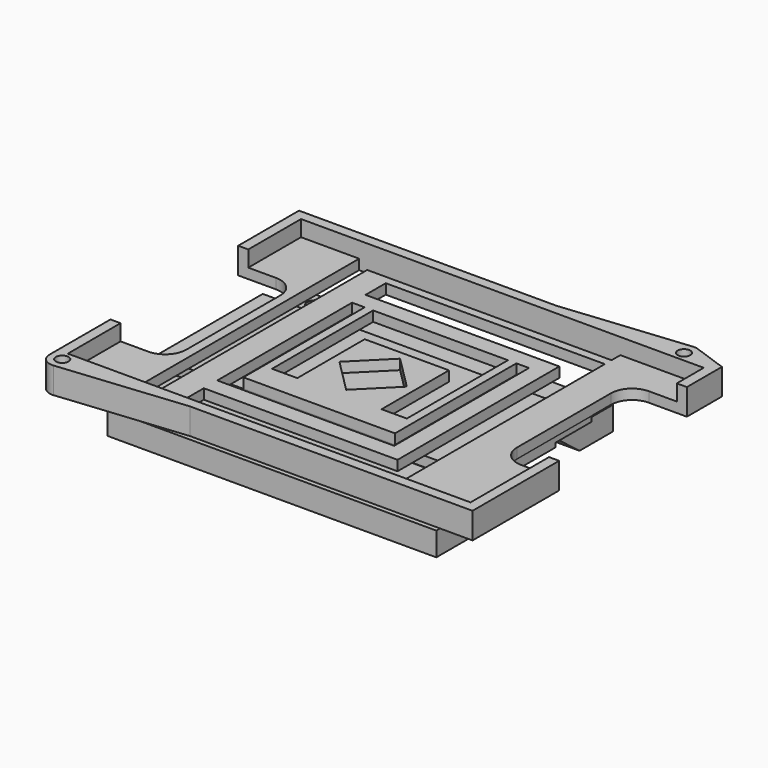
from build123d import *

# Parameters (mm, degrees)
SKETCH007_W       = 50.2
SKETCH007_H       = 37
PAD005_DEPTH      = 1.2
SKETCH008_W       = 47.8
SKETCH008_H       = 34.6
PAD006_DEPTH      = 3.1
POCKET001_DEPTH   = 3.101
SKETCH005_W       = 31
SKETCH005_H       = 34.6
POCKET002_DEPTH   = 5
SKETCH023_W       = 21
SKETCH023_H       = 20
PAD_DEPTH         = 1.2
PAD015_DEPTH      = 1.2
SKETCH013_R       = 0.75
POCKET_DEPTH      = 2.601
POCKET_DEPTH_BACK = 0.501
PAD016_DEPTH      = 19.5
SKETCH_R          = 1
POCKET003_DEPTH   = 5
SKETCH022_W       = 12.944488
SKETCH022_H       = 13.720411
POCKET004_DEPTH   = 4.8


with BuildPart() as plastic_tek1_display_interface_top_part:
    # Sketch007 (on DatumPlane) → Pad005 (new body)
    with BuildSketch(Plane.XY.offset(5.5)):
        with Locations((1.5, 0)):
            Rectangle(SKETCH007_W, SKETCH007_H)
    extrude(amount=PAD005_DEPTH)

    # Sketch008 (on DatumPlane) → Pad006 (join)
    with BuildSketch(Plane.XY.offset(5.5)):
        with BuildLine():
            Line((-23.6, -18.5), (-23.6, 18.5))
            Line((-23.6, 18.5), (6.951471, 18.5))
            Line((21.951471, 19.992628), (6.951471, 18.5))
            ThreePointArc((22.6, 19.914214), (22.280056, 19.989154), (21.951471, 19.992628))
            Line((22.6, 19.914214), (26.6, 18.5))
            Line((26.6, 18.5), (26.6, -18.5))
            Line((26.6, -18.5), (-6.951471, -18.5))
            Line((-21.951471, -19.992628), (-6.951471, -18.5))
            ThreePointArc((-23.6, -18.5), (-23.106779, -19.611934), (-21.951471, -19.992628))
        make_face()
        with Locations((1.5, 0)):
            Rectangle(SKETCH008_W, SKETCH008_H, mode=Mode.SUBTRACT)
    extrude(amount=PAD006_DEPTH)

    # Sketch009 (on DatumPlane) → Pocket001 (cut, through all)
    with BuildSketch(Plane.XY.offset(5.5)):
        with BuildLine():
            Line((19.6, -3.15), (19.6, 10.8))
            ThreePointArc((22.1, 13.3), (20.332233, 12.567767), (19.6, 10.8))
            Line((22.1, 13.3), (26.6, 13.3))
            Line((26.6, 13.3), (26.6, -5.65))
            Line((26.6, -5.65), (22.1, -5.65))
            ThreePointArc((19.6, -3.15), (20.332233, -4.917767), (22.1, -5.65))
        make_face()
        with BuildLine():
            Line((-23.6, 9.475), (-19.1, 9.475))
            ThreePointArc((-16.6, 6.975), (-17.332233, 8.742767), (-19.1, 9.475))
            Line((-16.6, 6.975), (-16.6, -6.975))
            ThreePointArc((-19.1, -9.475), (-17.332233, -8.742767), (-16.6, -6.975))
            Line((-19.1, -9.475), (-23.6, -9.475))
            Line((-23.6, -9.475), (-23.6, 9.475))
        make_face()
    extrude(amount=POCKET001_DEPTH, mode=Mode.SUBTRACT)

    # Sketch005 (on DatumPlane) → Pocket002 (cut)
    with BuildSketch(Plane.XY.offset(5.5)):
        Rectangle(SKETCH005_W, SKETCH005_H)
    extrude(amount=POCKET002_DEPTH, mode=Mode.SUBTRACT)

    # Sketch023 (on DatumPlane) → Pad (join)
    with BuildSketch(Plane.XY.offset(5.5)):
        Polygon((-13.5, -16), (-13.5, 16), (-10.5, 16), (15.5, 16), (15.5, 15), (-10.5, 15), (-10.5, 12), (12.5, 12), (12.5, -12), (-10.5, -12), (-10.5, -15), (15.5, -15), (15.5, -16), (-10.5, -16), align=None)
        Rectangle(SKETCH023_W, SKETCH023_H, mode=Mode.SUBTRACT)
    extrude(amount=PAD_DEPTH)

    # Sketch020 (on DatumPlane) → Pad015 (join)
    with BuildSketch(Plane.XY.offset(5.5)):
        Polygon((-5, -5), (-5, 5), (5, 5), (5, -5), (8, -5), (8, 10), (9, 10), (9, -8), (-9, -8), (-9, 10), (-8, 10), (-8, -5), align=None)
        Polygon((4, 0), (0, 4), (-4, 0), (0, -4), align=None, mode=Mode.SUBTRACT)
    extrude(amount=PAD015_DEPTH)

    # Sketch013 (on DatumPlane) → Pocket (cut, two sides)
    with BuildSketch(Plane.XY.offset(8.1)) as pocket_sk:
        with Locations((22.1, 18.5)):
            Circle(SKETCH013_R)
        with Locations((-22.1, -18.5)):
            Circle(SKETCH013_R)
    extrude(amount=-POCKET_DEPTH, mode=Mode.SUBTRACT)
    extrude(pocket_sk.sketch, amount=POCKET_DEPTH_BACK, mode=Mode.SUBTRACT)


with BuildPart() as body002:
    # Sketch021 → Pad016 (new body, symmetric)
    with BuildSketch(Plane.YZ):
        with BuildLine():
            Line((0, 5.5), (-8, 5.5))
            Line((-8, 5.5), (-8, 4.3))
            Line((-8, 4.3), (-7, 4.3))
            Line((-7, 3.6), (-7, 4.3))
            Line((-4, 3.6), (-7, 3.6))
            ThreePointArc((-4, 2.8), (-3.6, 3.2), (-4, 3.6))
            Line((-10, 2.8), (-4, 2.8))
            Line((-15, 2.8), (-10, 2.8))
            Line((-15, 2.8), (-15, 0))
            Line((-15, 0), (-10, 0))
            Line((-10, 0), (-7, 2.3))
            Line((-7, 2.3), (-4, 2.3))
            ThreePointArc((-4, 2.3), (-3.1, 3.2), (-4, 4.1))
            Line((-4, 4.1), (-6, 4.1))
            Line((-6, 4.1), (-6, 4.3))
            Line((-5.65359, 4.3), (-6, 4.3))
            Line((-5.65359, 4.3), (0, 4.3))
            Line((0, 4.3), (0, 5.5))
        make_face()
    pad016 = extrude(amount=PAD016_DEPTH, both=True)

    # Mirrored003: Pad016 across Sketch021 V_Axis
    add(pad016.mirror(Plane(origin=(0, 0, 0), x_dir=(1, 0, 0), z_dir=(0, 1, 0))))

    # Sketch → Pocket003 (cut)
    with BuildSketch(Plane.XY):
        with Locations((-17.5, 13.34)):
            Circle(SKETCH_R)
        with Locations((-17.5, -13.34)):
            Circle(SKETCH_R)
        with Locations((17.5, 13.34)):
            Circle(SKETCH_R)
        with Locations((17.5, -13.34)):
            Circle(SKETCH_R)
    extrude(amount=POCKET003_DEPTH, mode=Mode.SUBTRACT)

    # Sketch022 → Pocket004 (cut)
    with BuildSketch(Plane.XY):
        with Locations((22.972244, 9.533887)):
            Rectangle(SKETCH022_W, SKETCH022_H)
    extrude(amount=POCKET004_DEPTH, mode=Mode.SUBTRACT)


solid = Compound([plastic_tek1_display_interface_top_part.part, body002.part])
